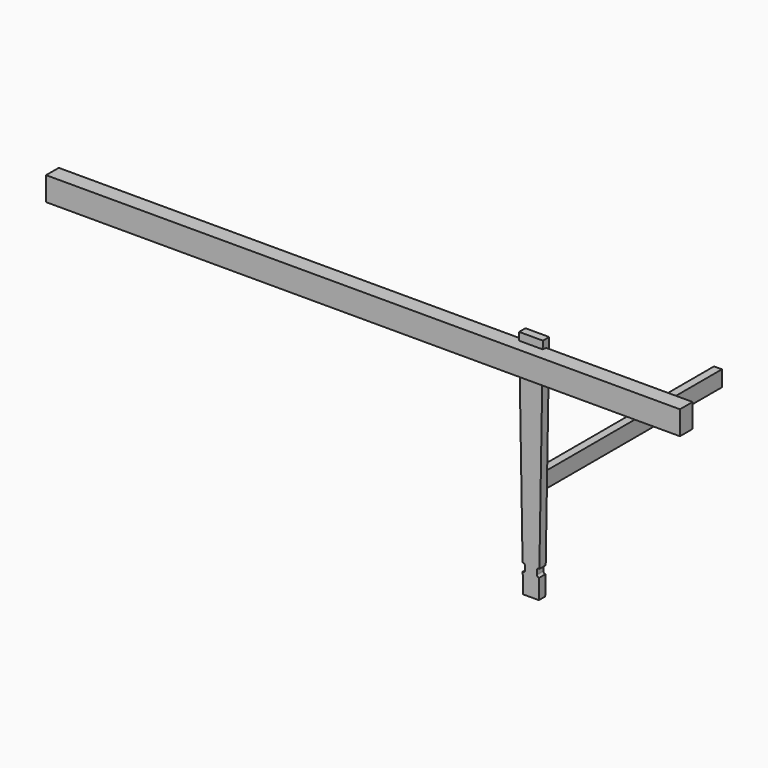
from build123d import *

# Parameters (mm, degrees)
F1_DEPTH  = 6.35
F2_W      = 1016
F2_H      = 38.1
F3_DEPTH  = 25.4
F4_W      = 38.608
F4_H      = 3.175
F5_DEPTH  = 38.1
F6_W      = 3.175
F6_H      = 38.608
F7_DEPTH  = 19.05
F8_W      = 12.7
F8_H      = 25.4
F9_DEPTH  = 368.3
F11_DEPTH = 6.35


with BuildPart() as f1:
    # F0 (on Front) → F1 (new body, symmetric)
    with BuildSketch(Plane.XZ):
        with BuildLine():
            Line((19.05, 31.75), (-19.05, 31.75))
            Line((-19.05, 31.75), (-13.4647675584, -292.193481611))
            ThreePointArc((-13.4647675584, -292.193481611), (-10.7439212692, -292.7741239537), (-9.525, -295.275))
            Line((-9.525, -295.275), (-9.525, -301.625))
            ThreePointArc((-9.525, -301.625), (-10.6579452087, -304.0561802132), (-13.2482360499, -304.7523091043))
            Line((-13.2482360499, -304.7523091043), (-12.7, -336.55))
            Line((-12.7, -336.55), (12.7, -336.55))
            Line((12.7, -336.55), (13.2482360499, -304.7523091043))
            ThreePointArc((13.2482360499, -304.7523091043), (10.6579452087, -304.0561802132), (9.525, -301.625))
            Line((9.525, -301.625), (9.525, -295.275))
            ThreePointArc((9.525, -295.275), (10.7439212692, -292.7741239537), (13.4647675584, -292.193481611))
            Line((13.4647675584, -292.193481611), (19.05, 31.75))
        make_face()
    extrude(amount=F1_DEPTH, both=True)

    # F6 (on Right) → F7 (cut, symmetric)
    with BuildSketch(Plane.YZ):
        with Locations((-4.7625, 0)):
            Rectangle(F6_W, F6_H)
    extrude(amount=F7_DEPTH, both=True, mode=Mode.SUBTRACT)

    # F10 (on face) → F11 (cut)
    with BuildSketch(Plane(origin=(0, 6.35, 0), x_dir=(-1, 0, 0), z_dir=(0, 1, 0))):
        with BuildLine():
            ThreePointArc((-6.604, -168.021), (-4.3589359697, -167.0910640303), (-3.429, -164.846))
            Line((-3.429, -164.846), (-6.604, -164.846))
            Line((-6.604, -164.846), (-6.604, -168.021))
        make_face()
        with BuildLine():
            Line((-6.604, -164.846), (-3.429, -164.846))
            ThreePointArc((-3.429, -164.846), (-8.8490640303, -162.6009359697), (-6.604, -168.021))
            Line((-6.604, -168.021), (-6.604, -164.846))
        make_face()
        with BuildLine():
            Line((3.429, -164.846), (-3.429, -164.846))
            ThreePointArc((-3.429, -164.846), (-4.3589359697, -167.0910640303), (-6.604, -168.021))
            Line((-6.604, -168.021), (-6.604, -187.579))
            ThreePointArc((-6.604, -187.579), (-4.3589359697, -188.5089359697), (-3.429, -190.754))
            Line((-3.429, -190.754), (3.429, -190.754))
            ThreePointArc((3.429, -190.754), (4.3589359697, -188.5089359697), (6.604, -187.579))
            Line((6.604, -187.579), (6.604, -168.021))
            ThreePointArc((6.604, -168.021), (4.3589359697, -167.0910640303), (3.429, -164.846))
        make_face()
        with BuildLine():
            ThreePointArc((9.779, -164.846), (6.604, -161.671), (3.429, -164.846))
            Line((3.429, -164.846), (6.604, -164.846))
            Line((6.604, -164.846), (6.604, -168.021))
            ThreePointArc((6.604, -168.021), (8.8490640303, -167.0910640303), (9.779, -164.846))
        make_face()
        with BuildLine():
            Line((6.604, -164.846), (3.429, -164.846))
            ThreePointArc((3.429, -164.846), (4.3589359697, -167.0910640303), (6.604, -168.021))
            Line((6.604, -168.021), (6.604, -164.846))
        make_face()
        with BuildLine():
            ThreePointArc((-3.429, -190.754), (-4.3589359697, -188.5089359697), (-6.604, -187.579))
            Line((-6.604, -187.579), (-6.604, -190.754))
            Line((-6.604, -190.754), (-3.429, -190.754))
        make_face()
        with BuildLine():
            Line((-6.604, -190.754), (-6.604, -187.579))
            ThreePointArc((-6.604, -187.579), (-8.8490640303, -192.9990640303), (-3.429, -190.754))
            Line((-3.429, -190.754), (-6.604, -190.754))
        make_face()
        with BuildLine():
            ThreePointArc((9.779, -190.754), (8.8490640303, -188.5089359697), (6.604, -187.579))
            Line((6.604, -187.579), (6.604, -190.754))
            Line((6.604, -190.754), (3.429, -190.754))
            ThreePointArc((3.429, -190.754), (6.604, -193.929), (9.779, -190.754))
        make_face()
        with BuildLine():
            Line((6.604, -190.754), (6.604, -187.579))
            ThreePointArc((6.604, -187.579), (4.3589359697, -188.5089359697), (3.429, -190.754))
            Line((3.429, -190.754), (6.604, -190.754))
        make_face()
    extrude(amount=-F11_DEPTH, mode=Mode.SUBTRACT)


with BuildPart() as f3:
    # F2 (on Front) → F3 (new body)
    with BuildSketch(Plane.XZ):
        with Locations((-254, 0)):
            Rectangle(F2_W, F2_H)
    extrude(amount=F3_DEPTH)

    # F4 (on face) → F5 (cut, through all)
    with BuildSketch(Plane.XY.offset(19.05)):
        with Locations((0, -1.5875)):
            Rectangle(F4_W, F4_H)
    extrude(amount=-F5_DEPTH, mode=Mode.SUBTRACT)


with BuildPart() as f9:
    # F8 (on Front) → F9 (new body)
    with BuildSketch(Plane.XZ):
        with Locations((0, -177.8)):
            Rectangle(F8_W, F8_H)
    extrude(amount=-F9_DEPTH)


solid = Compound([f1.part, f3.part, f9.part])
